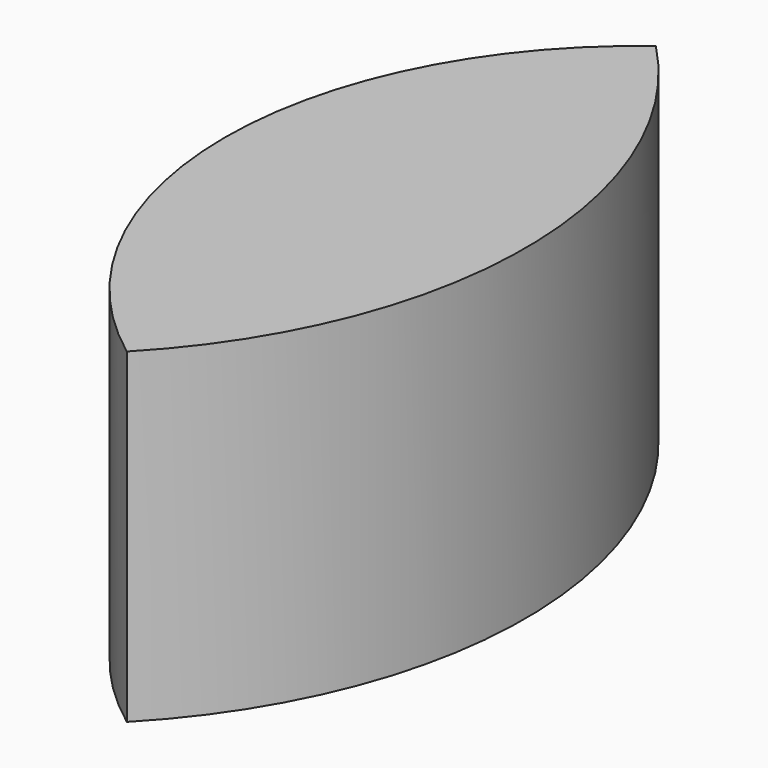
from build123d import *

# Parameters (mm, degrees)
F1_DEPTH = 3.175


with BuildPart() as f1:
    # F0 (on Top) → F1 (new body)
    with BuildSketch(Plane.XY):
        with BuildLine():
            ThreePointArc((0.903583, 3.21955), (-0.716173, 0), (0.903583, -3.21955))
            ThreePointArc((0.903583, -3.21955), (2.206832, 0), (0.903583, 3.21955))
        make_face()
    extrude(amount=F1_DEPTH)


solid = f1.part
